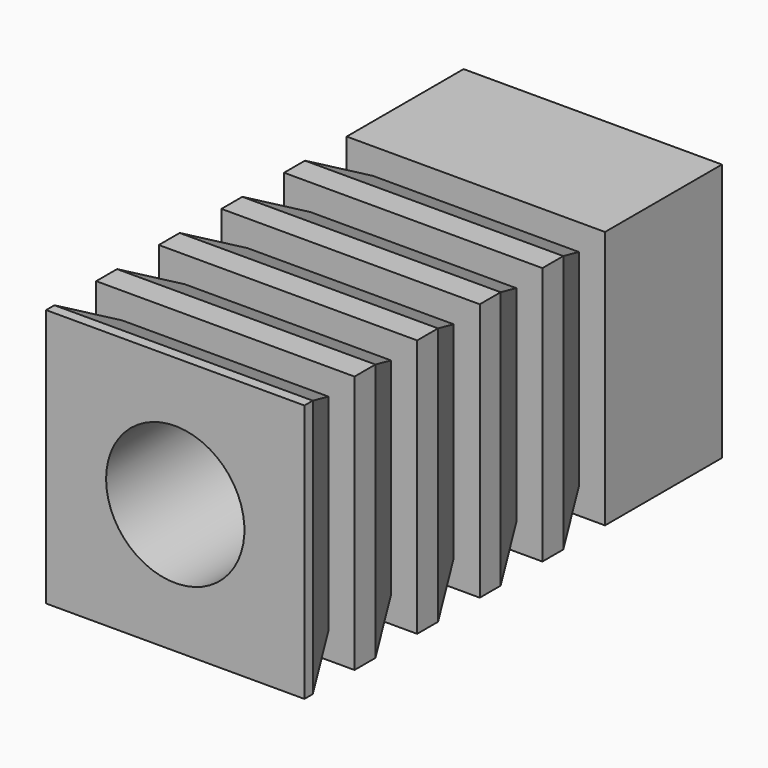
from build123d import *

# Parameters (mm, degrees)
F0_W      = 9.9
F0_H      = 9.9
F1_DEPTH  = 20
F3_DEPTH  = 9.901
F5_DEPTH  = 9.901
F6_R      = 2.65
F7_DEPTH  = 20.001
F9_DEPTH  = 3
F10_START = -3
F10_DEPTH = 0.2


with BuildPart() as f1:
    # F0 (on Front) → F1 (new body)
    with BuildSketch(Plane.XZ):
        Rectangle(F0_W, F0_H)
    extrude(amount=F1_DEPTH)

    # F2 (on face) → F3 (cut, through all)
    with BuildSketch(Plane(origin=(0, 0, -4.95), x_dir=(1, 0, 0), z_dir=(0, 0, -1))):
        Polygon((-4.95, 7.6), (-4.95, 5.6), (-3.95, 5.6), align=None)
        Polygon((-4.95, 10.6), (-4.95, 8.6), (-3.95, 8.6), align=None)
        Polygon((-4.95, 13.6), (-4.95, 11.6), (-3.95, 11.6), align=None)
        Polygon((-4.95, 16.6), (-4.95, 14.6), (-3.95, 14.6), align=None)
        Polygon((-3.95, 17.6), (-4.95, 19.6), (-4.95, 17.6), align=None)
        Polygon((4.95, 5.6), (4.95, 7.6), (3.95, 5.6), align=None)
        Polygon((3.95, 8.6), (4.95, 8.6), (4.95, 10.6), align=None)
        Polygon((3.95, 11.6), (4.95, 11.6), (4.95, 13.6), align=None)
        Polygon((3.95, 14.6), (4.95, 14.6), (4.95, 16.6), align=None)
        Polygon((3.95, 17.6), (4.95, 17.6), (4.95, 19.6), align=None)
    extrude(amount=-F3_DEPTH, mode=Mode.SUBTRACT)

    # F4 (on face) → F5 (cut, through all)
    with BuildSketch(Plane.YZ.offset(4.95)):
        Polygon((10.1219329327, 0.5148088664), (10.1219329327, 2.5148088664), (9.1219329327, 0.5148088664), align=None)
        Polygon((-5.6, 3.95), (-5.6, 4.95), (-7.6, 4.95), align=None)
        Polygon((-8.6, 4.95), (-10.6, 4.95), (-8.6, 3.95), align=None)
        Polygon((-11.6, 4.95), (-13.6, 4.95), (-11.6, 3.95), align=None)
        Polygon((-14.6, 4.95), (-16.6, 4.95), (-14.6, 3.95), align=None)
        Polygon((-10.6, -4.95), (-8.6, -4.95), (-8.6, -3.95), align=None)
        Polygon((-16.6, -4.95), (-14.6, -4.95), (-14.6, -3.95), align=None)
        Polygon((-7.6, -4.95), (-5.6, -4.95), (-5.6, -3.95), align=None)
        Polygon((-13.6, -4.95), (-11.6, -4.95), (-11.6, -3.95), align=None)
        Polygon((-17.6, 4.95), (-19.6, 4.95), (-17.6, 3.95), align=None)
        Polygon((-17.6, -4.95), (-17.6, -3.95), (-19.6, -4.95), align=None)
    extrude(amount=-F5_DEPTH, mode=Mode.SUBTRACT)

    # F6 (on face) → F7 (cut, through all)
    with BuildSketch(Plane(origin=(0, 0, 0), x_dir=(-1, 0, 0), z_dir=(0, 1, 0))):
        Circle(F6_R)
    extrude(amount=-F7_DEPTH, mode=Mode.SUBTRACT)

    # F8 (on face) → F9 (cut)
    with BuildSketch(Plane(origin=(0, 0, 0), x_dir=(-1, 0, 0), z_dir=(0, 1, 0))):
        Polygon((0, -4.5), (3.897114317, -2.25), (3.897114317, 2.25), (0, 4.5), (-3.897114317, 2.25), (-3.897114317, -2.25), align=None)
    extrude(amount=-F9_DEPTH, mode=Mode.SUBTRACT)

    # F8 (on face) → F10 (join)
    with BuildSketch(Plane(origin=(0, 0, 0), x_dir=(-1, 0, 0), z_dir=(0, 1, 0)).offset(F10_START)):
        Polygon((0, -4.5), (3.897114317, -2.25), (3.897114317, 2.25), (0, 4.5), (-3.897114317, 2.25), (-3.897114317, -2.25), align=None)
    extrude(amount=-F10_DEPTH)


solid = f1.part
